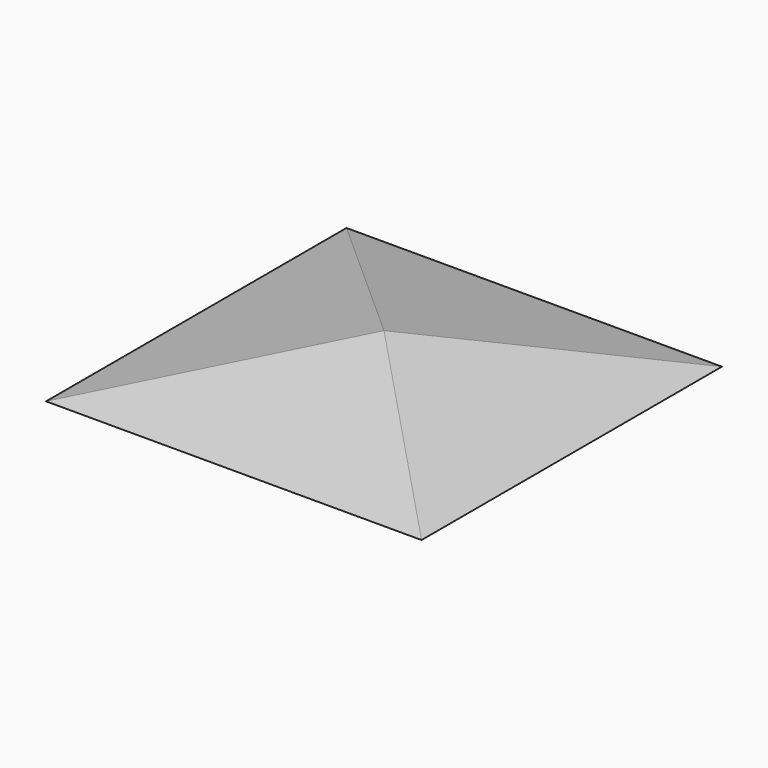
from build123d import *

# Parameters (mm, degrees)
F1_DEPTH = 25.4
F4_DEPTH = 50.801


with BuildPart() as f1:
    # F0 (on Front) → F1 (new body, symmetric)
    with BuildSketch(Plane.XZ):
        Polygon((0, 3.175), (-25.4, -3.175), (25.4, -3.175), align=None)
    extrude(amount=F1_DEPTH, both=True)

    # F3 (on offset) → F4 (cut, through all)
    with BuildSketch(Plane.YZ.offset(25.4)):
        Polygon((0, 3.175), (-25.4, 3.175), (-25.4, -3.175), align=None)
        Polygon((25.4, 3.175), (0, 3.175), (25.4, -3.175), align=None)
    extrude(amount=-F4_DEPTH, mode=Mode.SUBTRACT)


solid = f1.part
